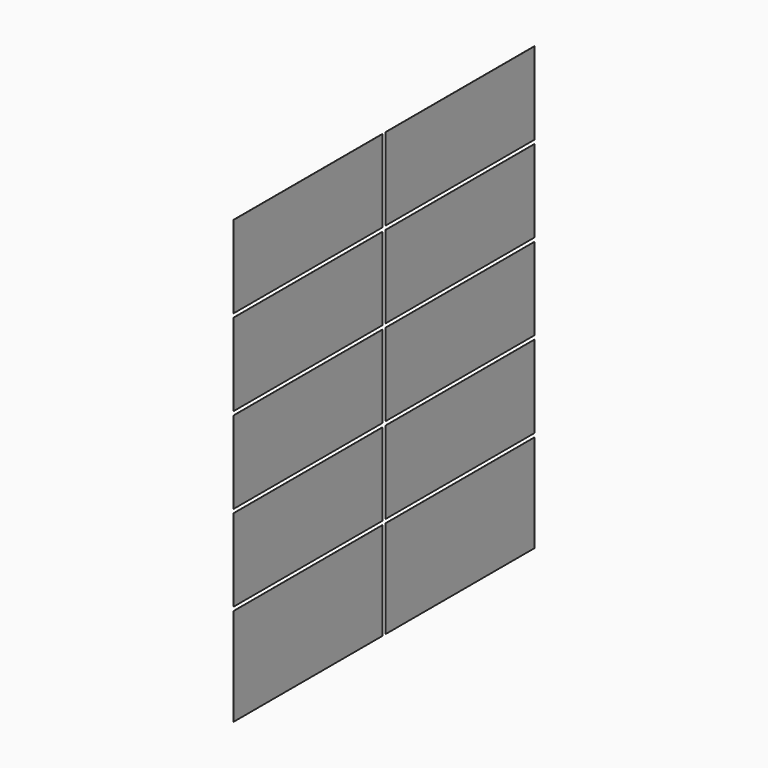
from build123d import *

# Parameters (mm, degrees)
F1_DEPTH = 0.012


with BuildPart() as f1:
    # F0 (on Right) → F1 (new body)
    with BuildSketch(Plane.YZ):
        Polygon((24.75, -1.304), (0, -1.304), (0, -12.238), (24.75, -12.238), (24.75, -7.021), (24.75, -6.521), align=None)
        Polygon((50, -12.238), (50, -1.304), (25.25, -1.304), (25.25, -6.521), (25.25, -7.021), (25.25, -12.238), align=None)
        Polygon((24.75, -12.738), (0, -12.738), (0, -23.672), (24.75, -23.672), (24.75, -18.455), (24.75, -17.955), align=None)
        Polygon((50, -12.738), (25.25, -12.738), (25.25, -17.955), (25.25, -18.455), (25.25, -23.672), (50, -23.672), align=None)
        Polygon((50, -24.172), (25.25, -24.172), (25.25, -29.389), (25.25, -29.889), (25.25, -35.106), (50, -35.106), align=None)
        Polygon((24.75, -24.172), (0, -24.172), (0, -35.106), (24.75, -35.106), (24.75, -29.889), (24.75, -29.389), align=None)
        Polygon((24.75, -35.606), (0, -35.606), (0, -46.54), (24.75, -46.54), (24.75, -41.323), (24.75, -40.823), align=None)
        Polygon((50, -35.606), (25.25, -35.606), (25.25, -40.823), (25.25, -41.323), (25.25, -46.54), (50, -46.54), align=None)
        Polygon((25.25, -52.757), (25.25, -60), (50, -60), (50, -47.04), (25.25, -47.04), (25.25, -52.257), align=None)
        Polygon((0, -47.04), (0, -60), (24.75, -60), (24.75, -52.757), (24.75, -52.257), (24.75, -47.04), align=None)
    extrude(amount=F1_DEPTH)


solid = f1.part
